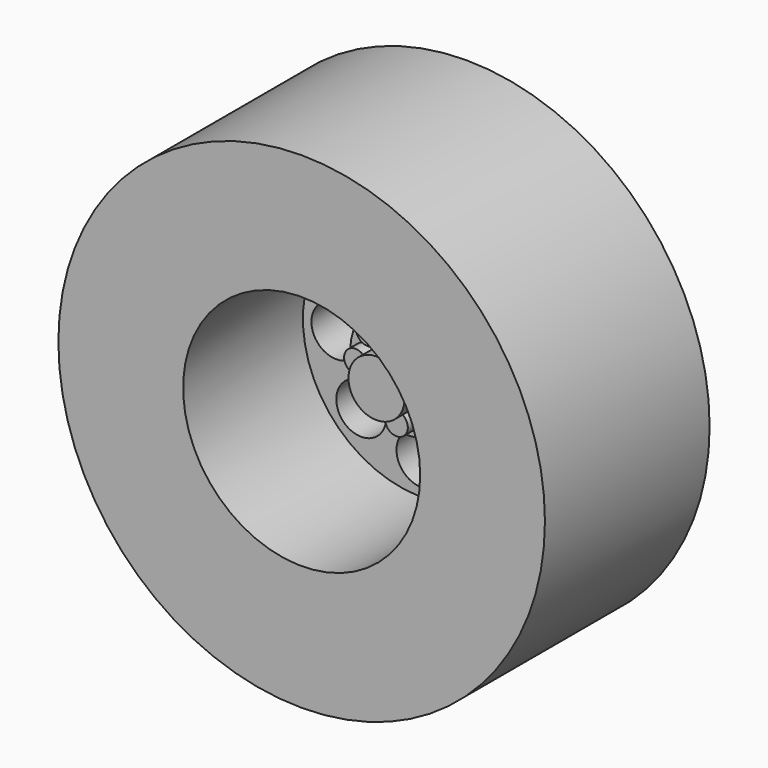
from build123d import *

# Parameters (mm, degrees)
F0_R      = 19.5
F1_DEPTH  = 16.5
F3_R      = 9.5
F4_DEPTH  = 12
F5_R      = 2
F6_DEPTH  = 25
F7_R      = 4.5
F8_DEPTH  = 1.5
F9_R      = 2.25
F10_DEPTH = 3
F11_R     = 0.909275
F12_DEPTH = 1
F13_R     = 19
F13_R_2   = 11
F14_DEPTH = 15
F15_R     = 3
F16_DEPTH = 9.5
F17_R     = 1.75
F18_DEPTH = 13


with BuildPart() as f1:
    # F0 (on Front) → F1 (new body)
    with BuildSketch(Plane.XZ):
        Circle(F0_R)
    extrude(amount=-F1_DEPTH)

    # F3 (on face) → F4 (cut)
    with BuildSketch(Plane.XZ):
        Circle(F3_R)
    extrude(amount=-F4_DEPTH, mode=Mode.SUBTRACT)

    # F5 (on face) → F6 (cut)
    with BuildSketch(Plane.XZ.offset(-12)):
        with Locations((0, 6.819186)):
            Circle(F5_R)
        with Locations((4.821892, 4.821892)):
            Circle(F5_R)
        with Locations((6.819186, 0)):
            Circle(F5_R)
        with Locations((4.821892, -4.821892)):
            Circle(F5_R)
        with Locations((0, -6.819186)):
            Circle(F5_R)
        with Locations((-4.821892, -4.821892)):
            Circle(F5_R)
        with Locations((-6.819186, 0)):
            Circle(F5_R)
        with Locations((-4.821892, 4.821892)):
            Circle(F5_R)
    extrude(amount=-F6_DEPTH, mode=Mode.SUBTRACT)

    # F7 (on face) → F8 (join)
    with BuildSketch(Plane.XZ.offset(-12)):
        Circle(F7_R)
    extrude(amount=F8_DEPTH)

    # F9 (on face) → F10 (join)
    with BuildSketch(Plane.XZ.offset(-10.5)):
        Circle(F9_R)
    extrude(amount=F10_DEPTH)

    # F11 (on face) → F12 (join)
    with BuildSketch(Plane.XZ.offset(-10.5)):
        with Locations((0, 3.288401)):
            Circle(F11_R)
        with Locations((2.325251, 2.325251)):
            Circle(F11_R)
        with Locations((3.288401, 0)):
            Circle(F11_R)
        with Locations((2.325251, -2.325251)):
            Circle(F11_R)
        with Locations((0, -3.288401)):
            Circle(F11_R)
        with Locations((-2.325251, -2.325251)):
            Circle(F11_R)
        with Locations((-3.288401, 0)):
            Circle(F11_R)
        with Locations((-2.325251, 2.325251)):
            Circle(F11_R)
    extrude(amount=F12_DEPTH)

    # F13 (on face) → F14 (cut)
    with BuildSketch(Plane(origin=(0, 16.5, 0), x_dir=(-1, 0, 0), z_dir=(0, 1, 0))):
        Circle(F13_R)
        Circle(F13_R_2, mode=Mode.SUBTRACT)
    extrude(amount=-F14_DEPTH, mode=Mode.SUBTRACT)

    # F15 (on face) → F16 (join)
    with BuildSketch(Plane(origin=(0, 16.5, 0), x_dir=(-1, 0, 0), z_dir=(0, 1, 0))):
        Circle(F15_R)
    extrude(amount=F16_DEPTH)

    # F17 (on face) → F18 (cut)
    with BuildSketch(Plane(origin=(0, 26, 0), x_dir=(-1, 0, 0), z_dir=(0, 1, 0))):
        Circle(F17_R)
    extrude(amount=-F18_DEPTH, mode=Mode.SUBTRACT)


solid = f1.part
